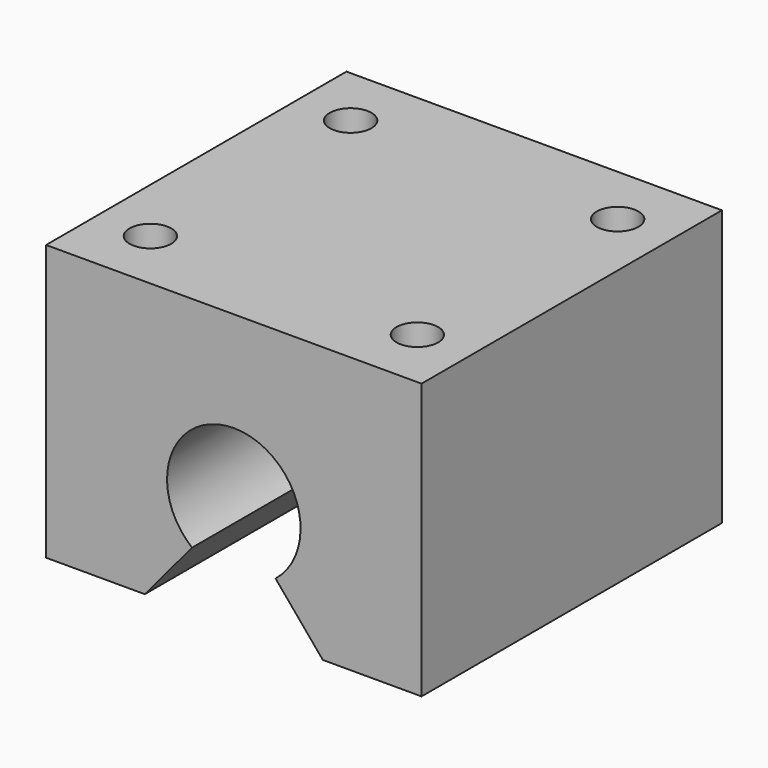
from build123d import *

# Parameters (mm, degrees)
F1_DEPTH = 45
F2_R     = 2.5
F3_DEPTH = 12


with BuildPart() as f1:
    # F0 (on Front) → F1 (new body)
    with BuildSketch(Plane.XZ):
        with BuildLine():
            Line((0, 20), (-22.5, 20))
            Line((-22.5, 20), (-22.5, -13))
            Line((-22.5, -13), (-10.66812, -13))
            Line((-10.66812, -13), (-5, -6.244998))
            ThreePointArc((-5, -6.244998), (-7.548509, 2.64953), (0, 8))
            Line((0, 8), (0, 20))
        make_face()
        with BuildLine():
            Line((22.5, 20), (0, 20))
            Line((0, 20), (0, 8))
            ThreePointArc((0, 8), (7.548509, 2.64953), (5, -6.244998))
            Line((5, -6.244998), (10.66812, -13))
            Line((10.66812, -13), (22.5, -13))
            Line((22.5, -13), (22.5, 20))
        make_face()
    extrude(amount=F1_DEPTH)

    # F2 (on face) → F3 (cut)
    with BuildSketch(Plane.XY.offset(20)):
        with Locations((-16, -7.5)):
            Circle(F2_R)
        with Locations((16, -7.5)):
            Circle(F2_R)
        with Locations((16, -37.5)):
            Circle(F2_R)
        with Locations((-16, -37.5)):
            Circle(F2_R)
    extrude(amount=-F3_DEPTH, mode=Mode.SUBTRACT)


solid = f1.part
